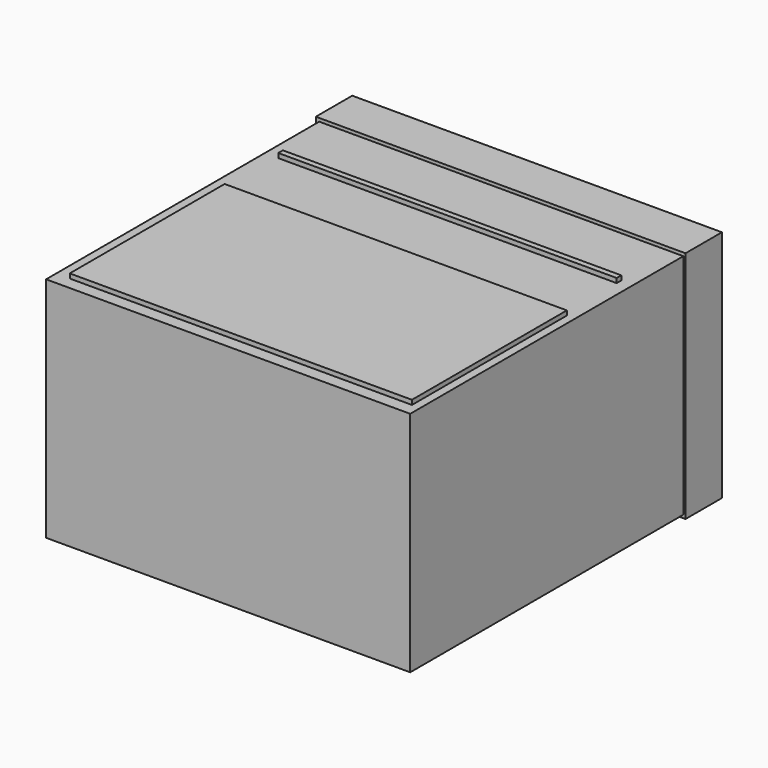
from build123d import *

# Parameters (mm, degrees)
SKETCH_W      = 800
SKETCH_H      = 500
PAD_DEPTH     = 850
SKETCH001_W   = 812.236467
SKETCH001_H   = 514.082147
PAD001_DEPTH  = 100
SKETCH002_W   = 743.373808
SKETCH002_H   = 12.635254
SKETCH002_W_2 = 751.797392
SKETCH002_H_2 = 425.38678
PAD002_DEPTH  = 10


with BuildPart() as part:
    # Sketch → Pad (new body)
    with BuildSketch(Plane.XZ):
        with Locations((400, 250)):
            Rectangle(SKETCH_W, SKETCH_H)
    extrude(amount=PAD_DEPTH)

    # Sketch001 (on Face5 of Pad) → Pad001 (join)
    with BuildSketch(Plane(origin=(0, 0, 0), x_dir=(1, 0, 0), z_dir=(0, 1, 0))):
        with Locations((398.720084, -250.168399)):
            Rectangle(SKETCH001_W, SKETCH001_H)
    extrude(amount=-PAD001_DEPTH)

    # Sketch002 (on Face8 of Pad001) → Pad002 (join)
    with BuildSketch(Plane(origin=(0, 0, 500), x_dir=(-1, 0, 0), z_dir=(0, 0, 1))):
        with Locations((-401.667527, 243.347824)):
            Rectangle(SKETCH002_W, SKETCH002_H)
        with Locations((-405.879319, 609.770111)):
            Rectangle(SKETCH002_W_2, SKETCH002_H_2)
    extrude(amount=PAD002_DEPTH)


solid = part.part
